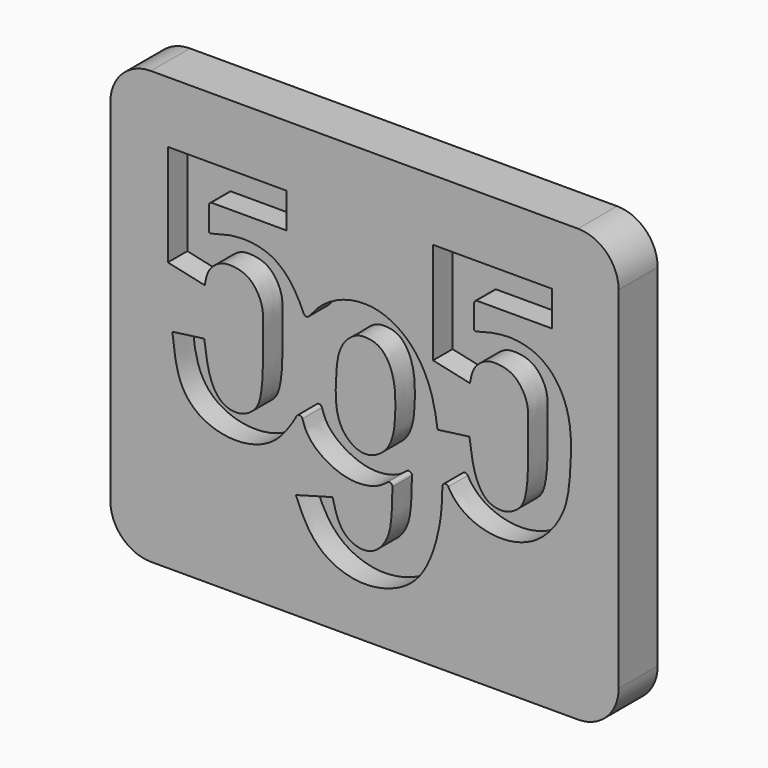
from build123d import *

# Parameters (mm, degrees)
F1_DEPTH = 3
F3_DEPTH = 3


with BuildPart() as f1:
    # F0 (on Front) → F1 (new body)
    with BuildSketch(Plane.XZ):
        with BuildLine():
            Line((-26.2521904707, -26.5712421387), (26.2521904707, -26.5712421387))
            ThreePointArc((26.2521904707, -26.5712421387), (29.7877243766, -25.1067760447), (31.2521904707, -21.5712421387))
            Line((31.2521904707, -21.5712421387), (31.2521904707, 21.5712421387))
            ThreePointArc((31.2521904707, 21.5712421387), (29.7877243766, 25.1067760447), (26.2521904707, 26.5712421387))
            Line((26.2521904707, 26.5712421387), (-26.2521904707, 26.5712421387))
            ThreePointArc((-26.2521904707, 26.5712421387), (-29.7877243766, 25.1067760447), (-31.2521904707, 21.5712421387))
            Line((-31.2521904707, 21.5712421387), (-31.2521904707, -21.5712421387))
            ThreePointArc((-31.2521904707, -21.5712421387), (-29.7877243766, -25.1067760447), (-26.2521904707, -26.5712421387))
        make_face()
        with BuildLine():
            Line((-24.1804867983, 6.5188668668), (-24.1804867983, 19.0295055509))
            Line((-24.1804867983, 19.0295055509), (-9.5692276955, 19.0295055509))
            Line((-9.5692276955, 19.0295055509), (-9.5692276955, 14.7253833711))
            Line((-9.5692276955, 14.7253833711), (-18.7460067018, 14.7253833711))
            ThreePointArc((-18.7460067018, 14.7253833711), (-19.0189579715, 14.6123232533), (-19.1320180893, 14.3393719836))
            Line((-19.1320180893, 14.3393719836), (-19.1320180893, 11.5628045595))
            ThreePointArc((-19.1320180893, 11.5628045595), (-19.052543922, 11.4032002875), (-18.8772828528, 11.3704401816))
            add(Edge.make_bspline(
                [(-18.8772828528, 11.3704401816), (-18.0907039553, 11.5942528357), (-16.428571119, 12.048986212), (-13.7637590064, 12.1663926481), (-10.7783023467, 11.2878918717), (-8.608008816, 8.883739189), (-7.8235892044, 7.195407339), (-7.479812433, 6.4214548917)],
                knots=[0.0187889452, 0.0187889452, 0.0187889452, 0.0187889452, 0.1928215696, 0.3859968189, 0.5892635727, 0.8004585236, 0.9781550685, 0.9781550685, 0.9781550685, 0.9781550685], degree=3))
            ThreePointArc((-7.479812433, 6.4214548917), (-7.1773938737, 6.1954394373), (-6.8268028651, 6.3355319618))
            add(Edge.make_bspline(
                [(-6.8268028651, 6.3355319618), (-6.3239368021, 6.9578108483), (-5.1657820011, 8.33523566), (-2.1396728387, 9.9326729538), (1.8950429815, 10.0853631714), (6.0194775368, 7.6605840045), (8.3949703412, 3.199174132), (8.7962173797, 0.4841619269), (8.9867115021, -0.8048042655)],
                knots=[0.0134429235, 0.0134429235, 0.0134429235, 0.0134429235, 0.1392843233, 0.2952512735, 0.4619051388, 0.6427907875, 0.8304130649, 1, 1, 1, 1], degree=3))
            Line((8.9867115021, -0.8048042655), (12.9019767046, -0.2800785005))
            add(Edge.make_bspline(
                [(12.9019767046, -0.2800785005), (13.0543244929, -1.4128068863), (13.328107964, -3.4484279333), (14.1004293769, -5.4535206804), (15.2062121625, -6.7542628508), (17.2121585921, -7.2105429933), (19.0659013385, -6.2089714944), (19.9198257488, -4.6565826928), (20.2026522486, -0.8100851133), (20.0692985967, 3.029626915), (20.2545182868, 5.7747033617), (18.5907316712, 8.3373482447), (16.4047076085, 8.7783260416), (14.8198998378, 8.6742253566), (13.28172228, 7.3709317022), (13.085235865, 6.1267789414), (12.9698067904, 5.5243223906)],
                knots=[0, 0, 0, 0, 0.0850530681, 0.1531982013, 0.2128134932, 0.2778382163, 0.3433024412, 0.4040377865, 0.4960108059, 0.5899390151, 0.6674603836, 0.7458264942, 0.8140016254, 0.8723646786, 0.9361011897, 1, 1, 1, 1], degree=3))
            Line((12.9698067904, 5.5243223906), (8.4308534861, 6.5188668668))
            Line((8.4308534861, 6.5188668668), (8.4308534861, 19.0295055509))
            Line((8.4308534861, 19.0295055509), (23.0421125889, 19.0295055509))
            Line((23.0421125889, 19.0295055509), (23.0421125889, 14.7253833711))
            Line((23.0421125889, 14.7253833711), (13.8653335825, 14.7253833711))
            ThreePointArc((13.8653335825, 14.7253833711), (13.5923823128, 14.6123232533), (13.4793221951, 14.3393719836))
            Line((13.4793221951, 14.3393719836), (13.4793221951, 11.5626012477))
            ThreePointArc((13.4793221951, 11.5626012477), (13.5587386682, 11.40304056), (13.7339183255, 11.370197343))
            add(Edge.make_bspline(
                [(13.7339183255, 11.370197343), (14.5206329081, 11.5934338311), (16.1829432155, 12.0472832886), (18.8464510581, 12.1747073507), (21.8375982381, 11.2543430537), (24.2004389296, 8.7818679608), (25.5755735256, 4.8713271716), (25.3064350862, -0.5737911857), (24.8312041176, -4.7094018545), (21.749976272, -9.0376680335), (16.9706732988, -10.4786564529), (12.5389209811, -9.3007692118), (10.8350653675, -7.5140693006), (10.3080651221, -6.5522620029)],
                knots=[0.006673314, 0.006673314, 0.006673314, 0.006673314, 0.0685294658, 0.1371846306, 0.2094263518, 0.2844857821, 0.3685608886, 0.4653028232, 0.5506041076, 0.6431140813, 0.7339975358, 0.8229147331, 0.8907000755, 0.8907000755, 0.8907000755, 0.8907000755], degree=3))
            ThreePointArc((10.3080651221, -6.5522620029), (9.8768736928, -6.3630255441), (9.583580391, -6.731421425))
            add(Edge.make_bspline(
                [(-8.4416717291, -13.5454395786), (-7.9438695099, -14.71578707), (-6.9579408758, -17.0337339557), (-4.2409263056, -19.6699254166), (0.459261844, -20.936928095), (5.9462638445, -19.1007566385), (8.4575100908, -14.8113966737), (9.4779663102, -10.267236628), (9.5666941787, -7.7613995922), (9.583580391, -6.731421425)],
                knots=[0, 0, 0, 0, 0.131573279, 0.2605891623, 0.4072468832, 0.5651074981, 0.7133867816, 0.8642572868, 0.9719474004, 0.9719474004, 0.9719474004, 0.9719474004], degree=3))
            Line((-8.4416717291, -13.5454395786), (-3.91946733, -12.3001933098))
            add(Edge.make_bspline(
                [(3.4391110044, -8.801032884), (3.4292294296, -9.8788771881), (3.3907020801, -12.0466383407), (2.98547267, -14.7224859441), (1.1638632401, -16.8474068921), (-1.2378962082, -16.8165054966), (-3.15517022, -15.3270751162), (-3.6508764536, -13.3639063953), (-3.91946733, -12.3001933098)],
                knots=[0.0310308646, 0.0310308646, 0.0310308646, 0.0310308646, 0.1949538702, 0.364973689, 0.5249423704, 0.6722147355, 0.8223945444, 1, 1, 1, 1], degree=3))
            ThreePointArc((3.4391110044, -8.801032884), (3.2178473715, -8.4483976929), (2.804982612, -8.5018005366))
            add(Edge.make_bspline(
                [(-7.6247713503, -5.0285945502), (-7.4951246028, -5.4581028515), (-7.1182427223, -6.5417591982), (-5.5143339169, -8.3435497571), (-1.8620178866, -10.0886878273), (1.4142697444, -9.5568731886), (2.461744348, -8.7898311991), (2.804982612, -8.5018005366)],
                knots=[0.0376498734, 0.0376498734, 0.0376498734, 0.0376498734, 0.1637941515, 0.3576495972, 0.6037857722, 0.8301707333, 0.9551635836, 0.9551635836, 0.9551635836, 0.9551635836], degree=3))
            ThreePointArc((-7.6247713503, -5.0285945502), (-7.954646037, -4.7561731868), (-8.3332477687, -4.9554002855))
            add(Edge.make_bspline(
                [(-23.6246287823, -0.8048042655), (-23.4238768593, -2.6360165944), (-23.0505161222, -6.0417263616), (-20.3186102891, -9.2347391659), (-15.6652683934, -10.4746071304), (-10.9657366753, -9.1109706503), (-8.8996831286, -5.9644979669), (-8.4359519706, -5.1438258987), (-8.3332477687, -4.9554002855)],
                knots=[0, 0, 0, 0, 0.1973470203, 0.3670282598, 0.5513187137, 0.7396844469, 0.9084969392, 0.9665234371, 0.9665234371, 0.9665234371, 0.9665234371], degree=3))
            Line((-23.6246287823, -0.8048042655), (-19.7093635798, -0.2800785005))
            add(Edge.make_bspline(
                [(-19.7093635798, -0.2800785005), (-19.5570157915, -1.4128068863), (-19.2832323204, -3.4484279333), (-18.5109109074, -5.4535206804), (-17.4051281218, -6.7542628508), (-15.3991816922, -7.2105429933), (-13.5454389459, -6.2089714944), (-12.6915145355, -4.6565826928), (-12.4086880358, -0.8100851133), (-12.5420416876, 3.029626915), (-12.3568219976, 5.7747033617), (-14.0206086131, 8.3373482447), (-16.2066326759, 8.7783260416), (-17.7914404465, 8.6742253566), (-19.3296180044, 7.3709317022), (-19.5261044193, 6.1267789414), (-19.641533494, 5.5243223906)],
                knots=[0, 0, 0, 0, 0.0850530681, 0.1531982013, 0.2128134932, 0.2778382163, 0.3433024412, 0.4040377865, 0.4960108059, 0.5899390151, 0.6674603836, 0.7458264942, 0.8140016254, 0.8723646786, 0.9361011897, 1, 1, 1, 1], degree=3))
            Line((-19.641533494, 5.5243223906), (-24.1804867983, 6.5188668668))
        make_face(mode=Mode.SUBTRACT)
    extrude(amount=F1_DEPTH)



with BuildPart() as f1b:
    # F0 (on Front) → F1, piece 2 (new body)
    with BuildSketch(Plane.XZ):
        with BuildLine():
            add(Edge.make_bspline(
                [(-3.4354478121, 1.6201604158), (-3.5268113996, 0.5204862984), (-3.661245232, -2.1514122715), (-2.8038980937, -5.0376153478), (-0.0082786462, -6.9479730958), (3.4625349906, -4.9889346896), (3.899180856, -0.526341138), (3.7411706941, 3.4063941992), (2.0399404478, 6.2494758513), (-0.4779286797, 6.4088353336), (-1.415072846, 5.9485227508), (-2.3566320655, 5.2360821356), (-3.2138401141, 3.6852138136), (-3.3662258173, 2.4533329967), (-3.4354478121, 1.6201604158)],
                knots=[0, 0, 0, 0, 0.1002894958, 0.1897756028, 0.2774641613, 0.3709145582, 0.478467765, 0.5828122225, 0.6726179006, 0.7498518805, 0.8019038103, 0.8568491044, 0.9240152544, 1, 1, 1, 1], degree=3))
        make_face()
    extrude(amount=F1_DEPTH)


with BuildPart() as f1_1:
    add(f1.part)

    add(f1b.part)  # F3 merges F1b
    # F2 (on face) → F3 (join)
    with BuildSketch(Plane.XZ):
        with BuildLine():
            Line((31.2521904707, -21.5712421387), (31.2521904707, 21.5712421387))
            ThreePointArc((31.2521904707, 21.5712421387), (29.7877243766, 25.1067760447), (26.2521904707, 26.5712421387))
            Line((26.2521904707, 26.5712421387), (-26.2521904707, 26.5712421387))
            ThreePointArc((-26.2521904707, 26.5712421387), (-29.7877243766, 25.1067760447), (-31.2521904707, 21.5712421387))
            Line((-31.2521904707, 21.5712421387), (-31.2521904707, -21.5712421387))
            ThreePointArc((-31.2521904707, -21.5712421387), (-29.7877243766, -25.1067760447), (-26.2521904707, -26.5712421387))
            Line((-26.2521904707, -26.5712421387), (26.2521904707, -26.5712421387))
            ThreePointArc((26.2521904707, -26.5712421387), (29.7877243766, -25.1067760447), (31.2521904707, -21.5712421387))
        make_face()
    extrude(amount=-F3_DEPTH)


solid = f1_1.part
